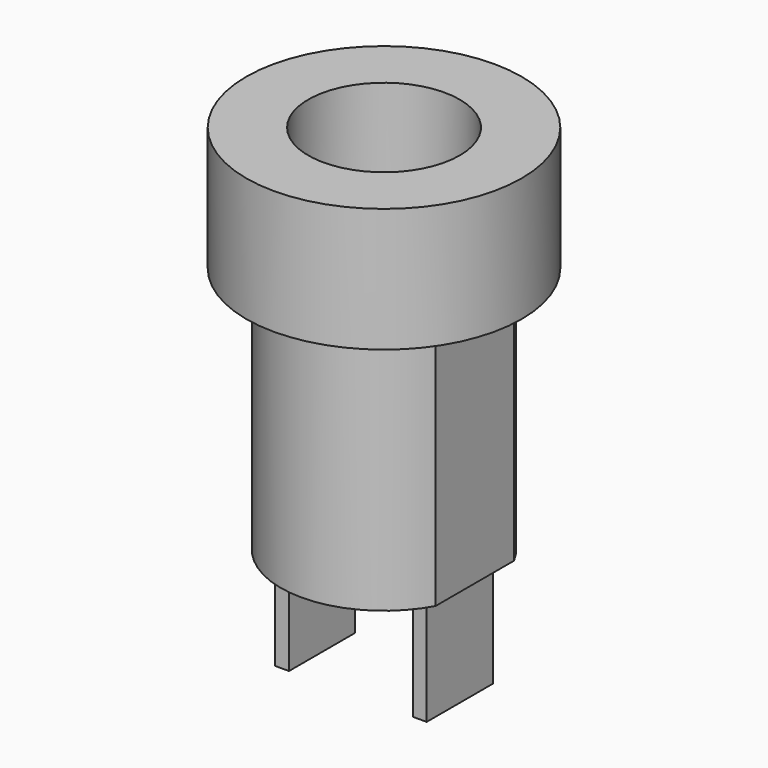
from build123d import *

# Parameters (mm, degrees)
SKETCH083_R   = 5
SKETCH083_R_2 = 2.75
PAD063_DEPTH  = 4.5
PAD064_DEPTH  = 9
SKETCH085_W   = 0.5
SKETCH085_H   = 3
PAD065_DEPTH  = 4


with BuildPart() as part:
    # Sketch083 → Pad063 (new body)
    with BuildSketch(Plane.XY):
        Circle(SKETCH083_R)
        Circle(SKETCH083_R_2, mode=Mode.SUBTRACT)
    extrude(amount=PAD063_DEPTH)

    # Sketch084 → Pad064 (join)
    with BuildSketch(Plane.XY):
        with BuildLine():
            ThreePointArc((3.3, 1.781151), (0, 3.75), (-3.3, 1.781151))
            Line((-3.3, -1.781151), (-3.3, 1.781151))
            ThreePointArc((-3.3, -1.781151), (0, -3.75), (3.3, -1.781151))
            Line((3.3, 1.781151), (3.3, -1.781151))
        make_face()
    extrude(amount=-PAD064_DEPTH)

    # Sketch085 → Pad065 (join)
    with BuildSketch(Plane.XY.offset(-9)):
        with Locations((-2.5, 0)):
            Rectangle(SKETCH085_W, SKETCH085_H)
        with Locations((2.5, 0)):
            Rectangle(SKETCH085_W, SKETCH085_H)
    extrude(amount=-PAD065_DEPTH)


solid = part.part
